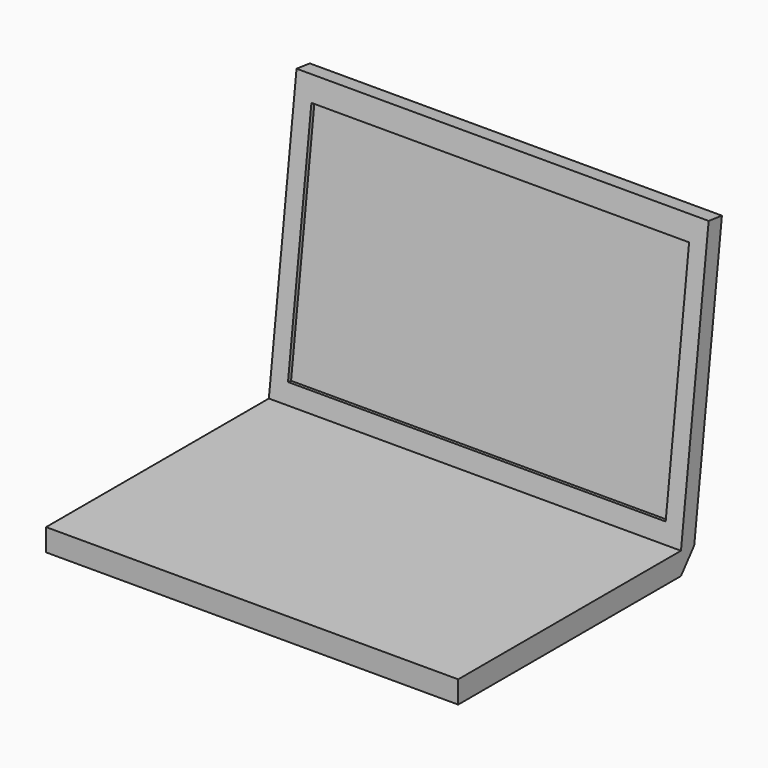
from build123d import *

# Parameters (mm, degrees)
F1_W     = 21.1428571429
F1_H     = 14.2857142857
F2_DEPTH = 1.1428571429
F3_W     = 21.1428571429
F3_H     = 14.2857142857
F4_DEPTH = 0.8571428571
F5_ANGLE = -97.1399716164
F7_DEPTH = 21.1428571429
F8_W     = 19.3768789759
F8_H     = 12.0920338668
F9_DEPTH = 0.2


with BuildPart() as f2:
    # F1 (on Top) → F2 (new body)
    with BuildSketch(Plane.XY):
        with Locations((10.5714285714, -7.1428571429)):
            Rectangle(F1_W, F1_H)
    extrude(amount=F2_DEPTH)



with BuildPart() as f4:
    # F3 (on face) → F4 (new body)
    with BuildSketch(Plane.XY.offset(1.1428571429)):
        with Locations((10.5714285714, -7.1428571429)):
            Rectangle(F3_W, F3_H)
    extrude(amount=F4_DEPTH)


with BuildPart() as f4_1:
    # F5: moved
    add(f4.part.rotate(Axis((10.5714285714, 0, 1.1428571429), (1, 0, 0)), F5_ANGLE))


with BuildPart() as f2_1:
    add(f2.part)

    add(f4_1.part)  # F7 merges F4
    # F6 (on face) → F7 (join, through all)
    with BuildSketch(Plane(origin=(0, 0, 0), x_dir=(0, -1, 0), z_dir=(-1, 0, 0))):
        Polygon((-0.850496115, 1.0363196571), (0, 0), (0, 1.1428571429), align=None)
    extrude(amount=-F7_DEPTH)

    # F8 (on face) → F9 (cut)
    with BuildSketch(Plane(origin=(0, -0.1409484498, 0.0176559225), x_dir=(1, 0, 0), z_dir=(0, -0.9922454675, 0.1242937334))):
        with Locations((10.5714288657, 8.1697662827)):
            Rectangle(F8_W, F8_H)
    extrude(amount=-F9_DEPTH, mode=Mode.SUBTRACT)


solid = f2_1.part
